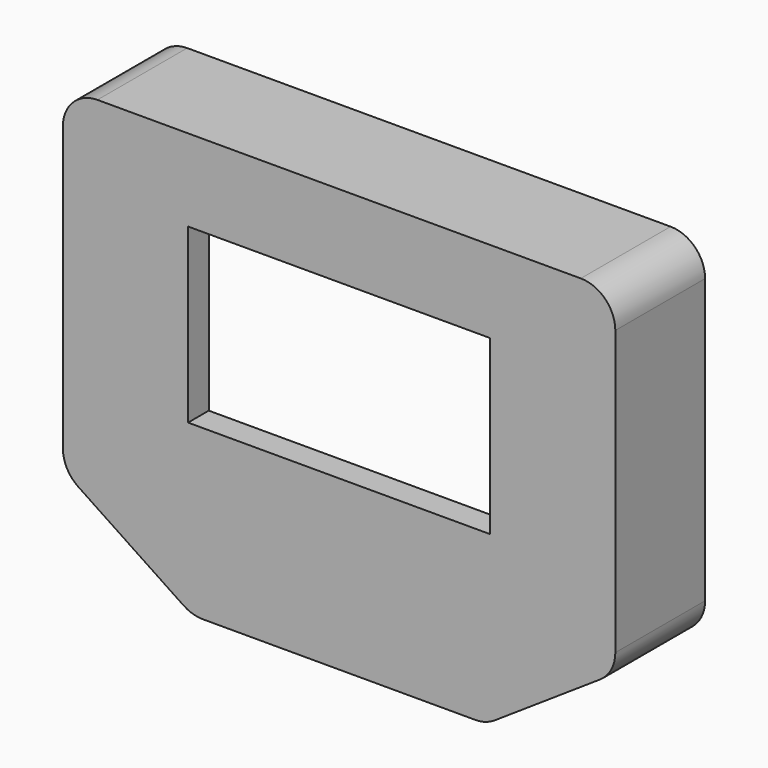
from build123d import *

# Parameters (mm, degrees)
F1_DEPTH = 10
F3_DEPTH = 3
F4_W     = 35
F4_H     = 20
F5_DEPTH = 25
F6_R     = 4
F7_R     = 4
F8_R     = 4


with BuildPart() as f1:
    # F0 (on Front) → F1 (new body)
    with BuildSketch(Plane.XZ):
        Polygon((64, 0), (0, 0), (0, -2), (0, -39), (15, -49), (32, -49), (49, -49), (64, -39), align=None)
        Polygon((2, -37.5), (2, -2), (62, -2), (62, -37.5), (47.5, -47), (32, -47), (16.5, -47), align=None, mode=Mode.SUBTRACT)
    extrude(amount=F1_DEPTH)

    # F2 (on face) → F3 (join)
    with BuildSketch(Plane.XZ.offset(10)):
        Polygon((0, -39), (15, -49), (49, -49), (64, -39), (64, 0), (0, 0), align=None)
    extrude(amount=F3_DEPTH)

    # F4 (on face) → F5 (cut)
    with BuildSketch(Plane.XZ.offset(13)):
        with Locations((32, -19.5)):
            Rectangle(F4_W, F4_H)
    extrude(amount=-F5_DEPTH, mode=Mode.SUBTRACT)

    # F6
    f6_edges = [f1.edges().sort_by_distance(p)[0] for p in [
        (64, -6.5, 0),
    ]]
    fillet(f6_edges, radius=F6_R)

    # F7
    f7_edges = [f1.edges().sort_by_distance(p)[0] for p in [
        (0, -6.5, 0),
        (64, -6.5, -39),
        (49, -6.5, -49),
        (15, -6.5, -49),
        (0, -6.5, -39),
    ]]
    fillet(f7_edges, radius=F7_R)

    # F8
    f8_edges = [f1.edges().sort_by_distance(p)[0] for p in [
        (2, -5, -2),
        (2, -5, -37.5),
        (62, -5, -2),
        (62, -5, -37.5),
        (47.5, -5, -47),
        (16.5, -5, -47),
    ]]
    fillet(f8_edges, radius=F8_R)


solid = f1.part
